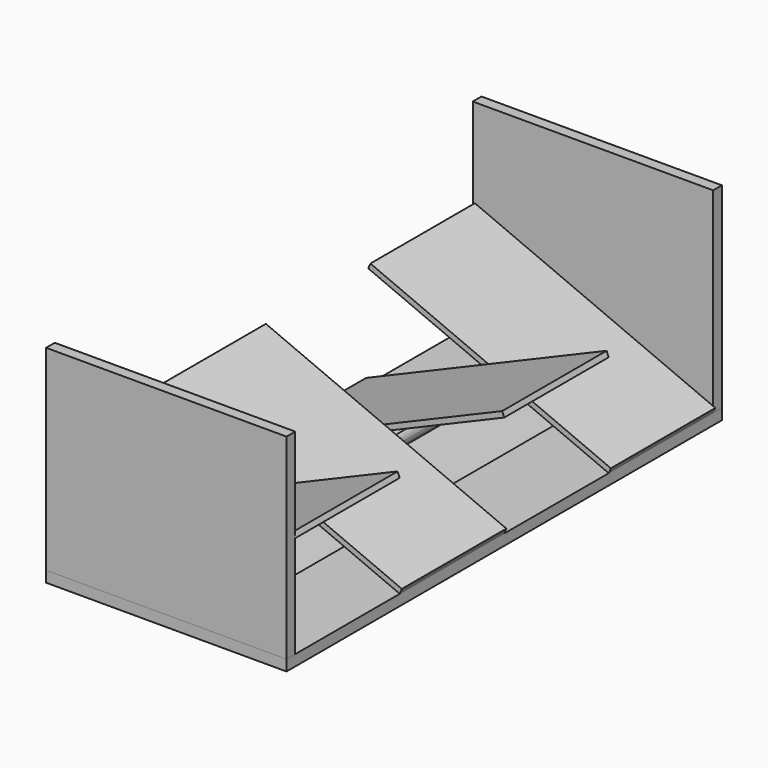
from build123d import *

# Parameters (mm, degrees)
F2_DEPTH      = 304.8
F3_START      = -609.6
F3_DEPTH      = 304.8
F4_DEPTH      = 304.8
F5_START      = 304.8
F5_DEPTH      = 304.8
F1_R          = 19.7485849545
F6_DEPTH      = 609.6
F6_DEPTH_BACK = 609.6
F0_W          = 561.1397464
F0_H          = 25.4
F7_DEPTH      = 457.2
F0_H_2        = 1219.2
F8_DEPTH      = 25.4


with BuildPart() as f2:
    # F1 (on Front) → F2 (new body)
    with BuildSketch(Plane.XZ):
        Polygon((-280.5698793323, 238.1896959271), (-16.2515846243, 125.9932363601), (0, 132.8916247566), (-275.6075940005, 249.8801075659), align=None)
        with BuildLine():
            Line((16.2515846243, 125.9932363601), (0, 119.0948479635))
            ThreePointArc((0, 119.0948479635), (9.3169243534, 117.1992982803), (17.1525481732, 111.8140232302))
            Line((17.1525481732, 111.8140232302), (280.5698793323, 0))
            Line((280.5698793323, 0), (285.5321646641, 11.6904116388))
            Line((285.5321646641, 11.6904116388), (16.2515846243, 125.9932363601))
        make_face()
        Polygon((-16.2515846243, 125.9932363601), (0, 119.0948479635), (16.2515846243, 125.9932363601), (0, 132.8916247566), align=None)
        with BuildLine():
            ThreePointArc((17.1525481732, 111.8140232302), (9.3169243534, 117.1992982803), (0, 119.0948479635))
            Line((0, 119.0948479635), (17.1525481732, 111.8140232302))
        make_face()
    extrude(amount=F2_DEPTH)


with BuildPart() as f3:
    # F2_face (on face) → F3 (new body)
    with BuildSketch(Plane(origin=(2.4811426659, -304.8, 124.940053783), x_dir=(1, 0, 0), z_dir=(0, -1, 0)).offset(F3_START)):
        Polygon((-278.0887366664, 124.940053783), (-283.0510219982, 113.2496421441), (278.0887366664, -124.940053783), (283.0510219982, -113.2496421441), align=None)
    extrude(amount=-F3_DEPTH)


with BuildPart() as f4:
    # F1 (on Front) → F4 (new body)
    with BuildSketch(Plane.XZ):
        Polygon((0, 132.8916247566), (16.2515846243, 125.9932363601), (280.5698793323, 238.1896959271), (275.6075940005, 249.8801075659), align=None)
        Polygon((-16.2515846243, 125.9932363601), (0, 119.0948479635), (16.2515846243, 125.9932363601), (0, 132.8916247566), align=None)
        with BuildLine():
            Line((-17.1525481732, 111.8140232302), (0, 119.0948479635))
            ThreePointArc((0, 119.0948479635), (-9.3169243534, 117.1992982803), (-17.1525481732, 111.8140232302))
        make_face()
        with BuildLine():
            ThreePointArc((-17.1525481732, 111.8140232302), (-9.3169243534, 117.1992982803), (0, 119.0948479635))
            Line((0, 119.0948479635), (-16.2515846243, 125.9932363601))
            Line((-16.2515846243, 125.9932363601), (-285.5321646641, 11.6904116388))
            Line((-285.5321646641, 11.6904116388), (-280.5698793323, 0))
            Line((-280.5698793323, 0), (-17.1525481732, 111.8140232302))
        make_face()
    extrude(amount=-F4_DEPTH)


with BuildPart() as f5:
    # F4_face (on face) → F5 (new body)
    with BuildSketch(Plane(origin=(-2.4811426659, 0, 124.940053783), x_dir=(1, 0, 0), z_dir=(0, -1, 0)).offset(F5_START)):
        Polygon((283.0510219982, 113.2496421441), (278.0887366664, 124.940053783), (-283.0510219982, -113.2496421441), (-278.0887366664, -124.940053783), align=None)
    extrude(amount=F5_DEPTH)


with BuildPart() as f6:
    # F1 (on Front) → F6 (new body, two sides)
    with BuildSketch(Plane.XZ) as f6_sk:
        with BuildLine():
            Line((17.1525481732, 111.8140232302), (0, 119.0948479635))
            Line((0, 119.0948479635), (-17.1525481732, 111.8140232302))
            ThreePointArc((-17.1525481732, 111.8140232302), (-23.8304400681, 96.0787946457), (-18.2618665319, 79.9176484134))
            ThreePointArc((-18.2618665319, 79.9176484134), (0, 71.4051520365), (18.2618665319, 79.9176484134))
            ThreePointArc((18.2618665319, 79.9176484134), (22.4056712172, 87.0914050407), (23.8448479635, 95.25))
            ThreePointArc((23.8448479635, 95.25), (22.1085580464, 104.1824372661), (17.1525481732, 111.8140232302))
        make_face()
        with Locations((0, 95.25)):
            Circle(F1_R, mode=Mode.SUBTRACT)
        with BuildLine():
            ThreePointArc((18.2618665319, 79.9176484134), (0, 71.4051520365), (-18.2618665319, 79.9176484134))
            Line((-18.2618665319, 79.9176484134), (-84.9831551313, 0))
            Line((-84.9831551313, 0), (84.9831551313, 0))
            Line((84.9831551313, 0), (18.2618665319, 79.9176484134))
        make_face()
    extrude(amount=-F6_DEPTH)
    extrude(f6_sk.sketch, amount=F6_DEPTH_BACK)


with BuildPart() as f7:
    # F0 (on Top) → F7 (new body)
    with BuildSketch(Plane.XY):
        with Locations((0, 622.3)):
            Rectangle(F0_W, F0_H)
    extrude(amount=F7_DEPTH)


with BuildPart() as f7b:
    # F0 (on Top) → F7, piece 2 (new body)
    with BuildSketch(Plane.XY):
        with Locations((0, -622.3)):
            Rectangle(F0_W, F0_H)
    extrude(amount=F7_DEPTH)


with BuildPart() as f8:
    # F0 (on Top) → F8 (new body)
    with BuildSketch(Plane.XY):
        Rectangle(F0_W, F0_H_2)
        with Locations((0, -622.3)):
            Rectangle(F0_W, F0_H)
        with Locations((0, 622.3)):
            Rectangle(F0_W, F0_H)
    extrude(amount=-F8_DEPTH)


solid = Compound([f2.part, f3.part, f4.part, f5.part, f6.part, f7.part, f7b.part, f8.part])
